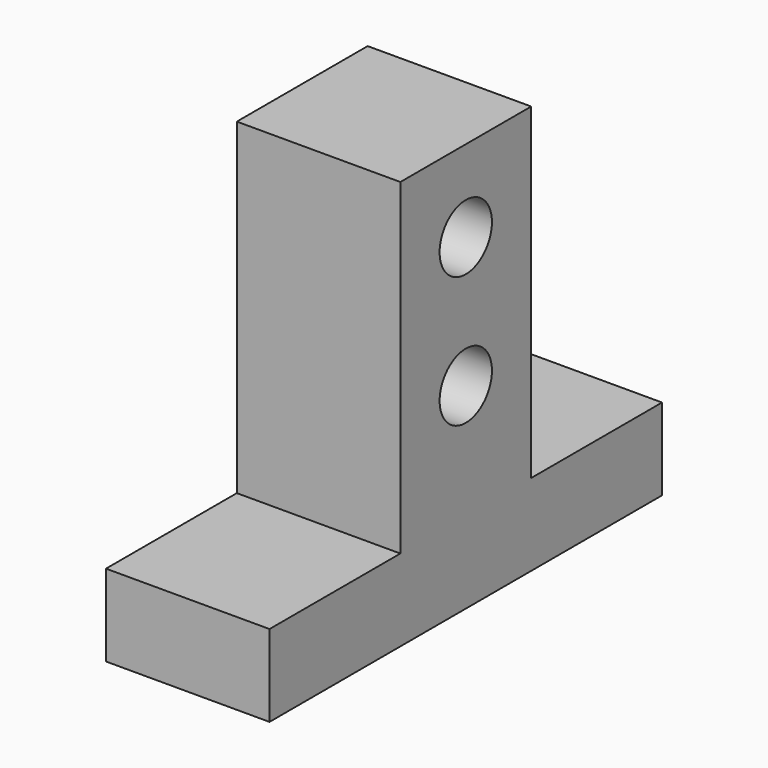
from build123d import *

# Parameters (mm, degrees)
PAD_DEPTH    = 20
SKETCH001_R  = 4
POCKET_DEPTH = 20


with BuildPart() as part:
    # Sketch → Pad (new body)
    with BuildSketch(Plane.YZ):
        Polygon((-30, -5), (30, -5), (30, 5), (10, 5), (10, 45), (-10, 45), (-10, 5), (-30, 5), align=None)
    extrude(amount=PAD_DEPTH)

    # Sketch001 → Pocket (cut)
    with BuildSketch(Plane.YZ.offset(20)):
        with Locations((0, 35)):
            Circle(SKETCH001_R)
        with Locations((0, 19)):
            Circle(SKETCH001_R)
    extrude(amount=-POCKET_DEPTH, mode=Mode.SUBTRACT)


solid = part.part
